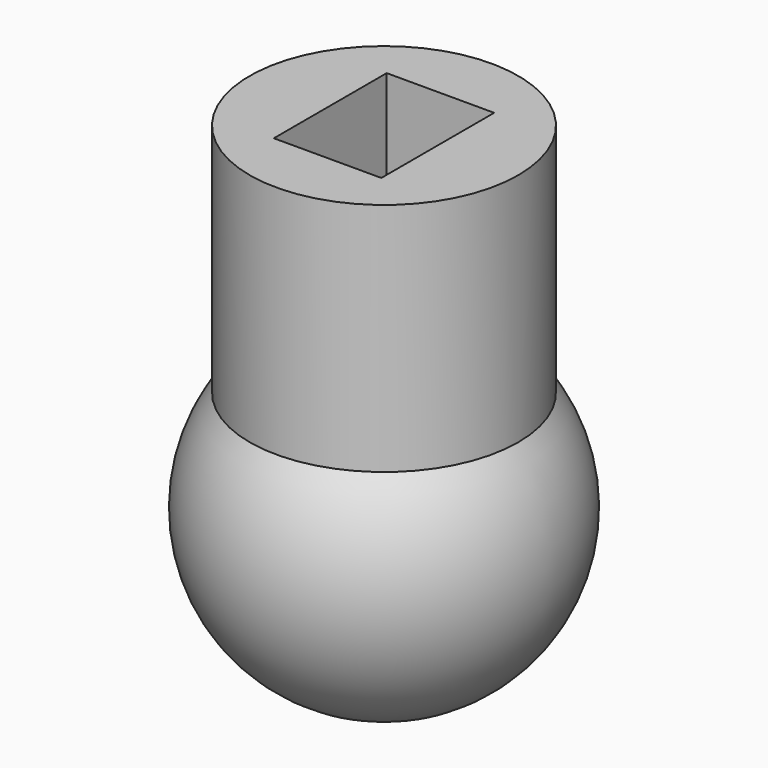
from build123d import *

# Parameters (mm, degrees)
BOX_W          = 3.2
BOX_H          = 4.2
BOX_DEPTH      = 5
CYLINDER_R     = 4
CYLINDER_DEPTH = 10


with BuildPart() as obj1:
    # Box → Box (new body)
    with BuildSketch(Plane(origin=(-1.6, -2.1, 5), x_dir=(1, 0, 0), z_dir=(0, 0, 1))):
        with Locations((1.6, 2.1)):
            Rectangle(BOX_W, BOX_H)
    extrude(amount=BOX_DEPTH)


with BuildPart() as obj2:
    # Cylinder → Cylinder (new body)
    with BuildSketch(Plane.XY):
        Circle(CYLINDER_R)
    extrude(amount=CYLINDER_DEPTH)


with BuildPart() as obj3:
    # Sphere → Sphere (revolve)
    with BuildSketch(Plane.XZ):
        with BuildLine():
            ThreePointArc((0, -5), (5, 0), (0, 5))
            Line((0, 5), (0, -5))
        make_face()
    revolve(axis=Axis((0, 0, 0), (0, 0, 1)))

    # Fusion: union obj2
    add(obj2.part)

    # Cut: cut obj1
    add(obj1.part, mode=Mode.SUBTRACT)


solid = obj3.part
